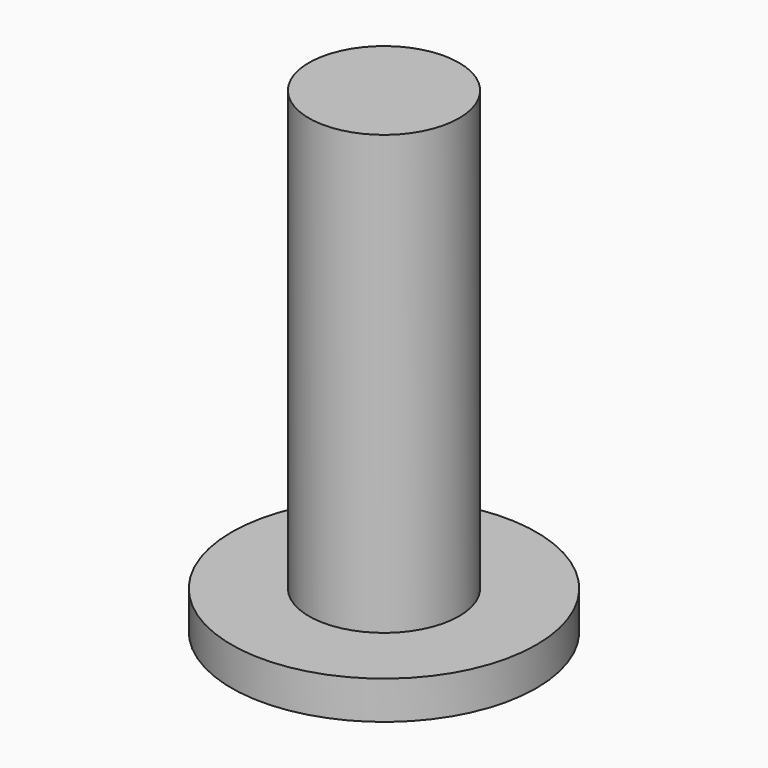
from build123d import *

# Parameters (mm, degrees)
CYLINDER001_R     = 1.97
CYLINDER001_DEPTH = 11.5
CYLINDER_R        = 4
CYLINDER_DEPTH    = 1


with BuildPart() as cylinder001:
    # Cylinder001 → Cylinder001 (new body)
    with BuildSketch(Plane.XY.offset(1)):
        Circle(CYLINDER001_R)
    extrude(amount=CYLINDER001_DEPTH)


with BuildPart() as fusion:
    # Cylinder → Cylinder (new body)
    with BuildSketch(Plane.XY):
        Circle(CYLINDER_R)
    extrude(amount=CYLINDER_DEPTH)

    # Fusion: union Cylinder001
    add(cylinder001.part)


solid = fusion.part
